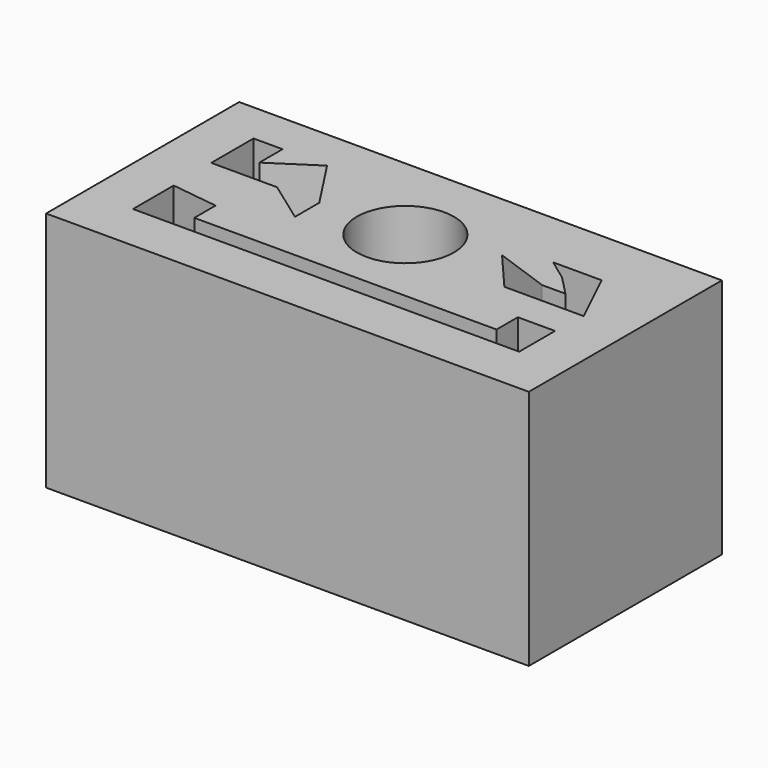
from build123d import *

# Parameters (mm, degrees)
F0_W     = 25.4
F0_H     = 12.7
F1_DEPTH = 12.7
F3_D     = 5.1054
F5_DEPTH = 25.4
F7_DEPTH = 25.4
F9_DEPTH = 25.4


with BuildPart() as f1:
    # F0 (on Top) → F1 (new body)
    with BuildSketch(Plane.XY):
        with Locations((0.563834, -1.404666)):
            Rectangle(F0_W, F0_H)
    extrude(amount=F1_DEPTH)

    # F3 (through all)
    with Locations(Plane(origin=(0, 0, 0), x_dir=(1, 0, 0), z_dir=(0, 0, -1))):
        with Locations((0.563834, 0)):
            Hole(F3_D / 2)

    # F4 (on face) → F5 (cut)
    with BuildSketch(Plane.XY.offset(12.7)):
        Polygon((-9.596166, -2.537197), (-9.596166, -5.214666), (10.723834, -5.214666), (10.723834, -2.854676), (8.765497, -2.854676), (8.765497, -4.253724), (-7.137803, -4.253724), (-7.137803, -2.854676), align=None)
    extrude(amount=-F5_DEPTH, mode=Mode.SUBTRACT)

    # F6 (on face) → F7 (cut)
    with BuildSketch(Plane.XY.offset(12.7)):
        Polygon((-9.650016, 2.781621), (-9.650016, 0), (-6.187561, 0), (-3.966114, -1.597365), (-3.966114, 0), (-5.780214, 2.781621), (-8.122463, 1.254068), (-8.122463, 2.781621), align=None)
    extrude(amount=-F7_DEPTH, mode=Mode.SUBTRACT)

    # F8 (on face) → F9 (cut)
    with BuildSketch(Plane.XY.offset(12.7)):
        Polygon((9.393484, 1.865089), (6.847562, 1.865089), (7.967768, 1.050394), (8.986138, 0), (7.764094, 0), (4.810824, 1.050394), (6.643889, -1.088181), (10.819201, -1.088181), align=None)
    extrude(amount=-F9_DEPTH, mode=Mode.SUBTRACT)


solid = f1.part
